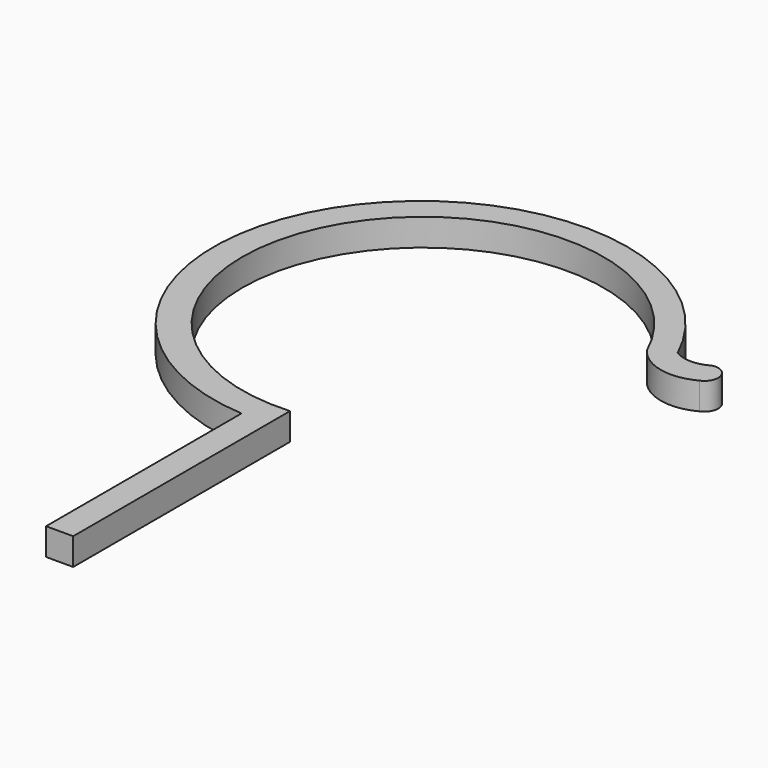
from build123d import *

# Parameters (mm, degrees)
F1_DEPTH = 1.905


with BuildPart() as f1:
    # F0 (on Top) → F1 (new body, symmetric)
    with BuildSketch(Plane.XY):
        with BuildLine():
            Line((0, -38.1), (0, 0))
            ThreePointArc((0, 0), (-23.319546, 38.505311), (21.608541, 35.689782))
            ThreePointArc((21.608541, 35.689782), (25.726176, 33.061298), (30.563431, 33.743069))
            ThreePointArc((30.563431, 33.743069), (31.679258, 36.106378), (29.395403, 37.376933))
            ThreePointArc((29.395403, 37.376933), (26.994454, 36.716811), (24.593504, 37.376933))
            ThreePointArc((24.593504, 37.376933), (-25.783937, 41.782378), (-3.81, -3.76365))
            Line((-3.81, -3.76365), (-3.81, -38.1))
            Line((-3.81, -38.1), (0, -38.1))
        make_face()
    extrude(amount=F1_DEPTH, both=True)


solid = f1.part
